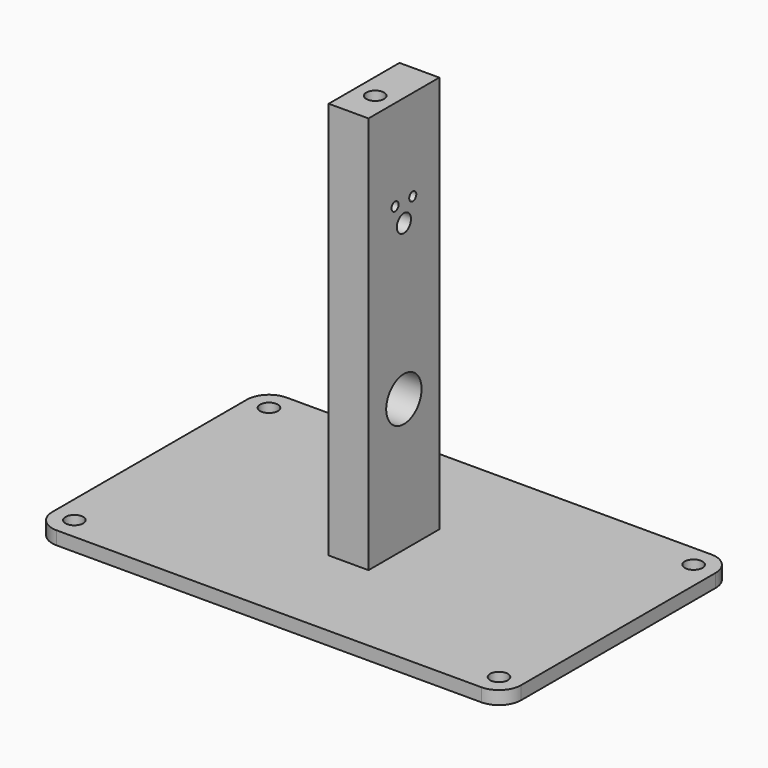
from build123d import *

# Parameters (mm, degrees)
F0_R           = 2
F1_DEPTH       = 3
F2_D           = 3
F2_CSINK_D     = 6
F2_CSINK_ANGLE = 82
F3_W           = 20
F3_H           = 89.91
F3_R           = 5
F3_R_2         = 1
F3_R_3         = 2
F4_DEPTH       = 4.5
F5_D           = 2
F5_DEPTH       = 4.501
F7_D           = 4
F7_DEPTH       = 22
F7_TIP         = 1.2017212381
F9_D           = 3
F9_DEPTH       = 22
F9_TIP         = 0.9012909285


with BuildPart() as f1:
    # F0 (on Top) → F1 (new body)
    with BuildSketch(Plane.XY):
        with BuildLine():
            ThreePointArc((53, 27.5), (51.5355339059, 31.0355339059), (48, 32.5))
            Line((48, 32.5), (-48, 32.5))
            ThreePointArc((-48, 32.5), (-51.5355339059, 31.0355339059), (-53, 27.5))
            Line((-53, 27.5), (-53, -27.5))
            ThreePointArc((-53, -27.5), (-51.5355339059, -31.0355339059), (-48, -32.5))
            Line((-48, -32.5), (48, -32.5))
            ThreePointArc((48, -32.5), (51.5355339059, -31.0355339059), (53, -27.5))
            Line((53, -27.5), (53, 27.5))
        make_face()
        with Locations((-48, -27.5)):
            Circle(F0_R, mode=Mode.SUBTRACT)
        with Locations((48, -27.5)):
            Circle(F0_R, mode=Mode.SUBTRACT)
        with Locations((-48, 27.5)):
            Circle(F0_R, mode=Mode.SUBTRACT)
        with Locations((48, 27.5)):
            Circle(F0_R, mode=Mode.SUBTRACT)
    extrude(amount=F1_DEPTH)

    # F2 (through all)
    with Locations(Plane(origin=(0, 0, 0), x_dir=(1, 0, 0), z_dir=(0, 0, -1))):
        with Locations((0, -6.5), (0, 6.5)):
            CounterSinkHole(F2_D / 2, F2_CSINK_D / 2, counter_sink_angle=F2_CSINK_ANGLE)


with BuildPart() as f4:
    # F3 (on Right) → F4 (new body, symmetric)
    with BuildSketch(Plane.YZ):
        with Locations((0, 47.955)):
            Rectangle(F3_W, F3_H)
        with Locations((0, 33)):
            Circle(F3_R, mode=Mode.SUBTRACT)
        with Locations((-2.5, 72.3301270189)):
            Circle(F3_R_2, mode=Mode.SUBTRACT)
        with Locations((0, 68)):
            Circle(F3_R_3, mode=Mode.SUBTRACT)
        with Locations((2.5, 72.3301270189)):
            Circle(F3_R_2, mode=Mode.SUBTRACT)
        with Locations((-2.5, 72.3301270189)):
            Circle(F3_R_2)
    extrude(amount=F4_DEPTH, both=True)

    # F5 (through all, one way)
    with BuildSketch(Plane(origin=(0, 0, 0), x_dir=(0, 1, 0), z_dir=(-1, 0, 0))):
        with Locations((-2.5, -72.3301270189)):
            Circle(F5_D / 2)
    extrude(amount=-F5_DEPTH, mode=Mode.SUBTRACT)

    # F7
    with Locations(Plane.XY.offset(92.91)):
        with Locations((0, -2.5)):
            Hole(F7_D / 2, depth=F7_DEPTH)
            with Locations((0, 0, -(F7_DEPTH + F7_TIP / 2))):  # 118° drill point
                Cone(0, F7_D / 2, F7_TIP, mode=Mode.SUBTRACT)

    # F9
    with Locations(Plane(origin=(0, 0, 0), x_dir=(1, 0, 0), z_dir=(0, 0, -1))):
        with Locations((0, 6.5), (0, -6.5)):
            Hole(F9_D / 2, depth=F9_DEPTH)
            with Locations((0, 0, -(F9_DEPTH + F9_TIP / 2))):  # 118° drill point
                Cone(0, F9_D / 2, F9_TIP, mode=Mode.SUBTRACT)


solid = Compound([f1.part, f4.part])
